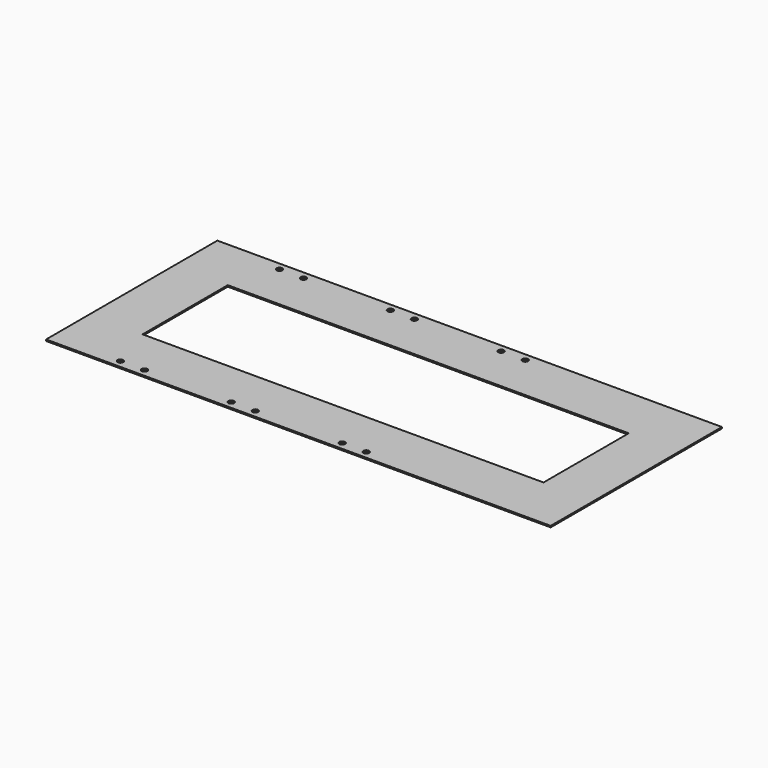
from build123d import *

# Parameters (mm, degrees)
F0_W     = 1676.4
F0_H     = 711.2
F0_R     = 9.525
F1_DEPTH = 4.7498


with BuildPart() as f1:
    # F0 (on Top) → F1 (new body)
    with BuildSketch(Plane.XY):
        with Locations((157.311008, -148.01763)):
            Rectangle(F0_W, F0_H)
        with Locations((-454.193992, -478.21763)):
            Circle(F0_R, mode=Mode.SUBTRACT)
        with Locations((-374.183992, -478.21763)):
            Circle(F0_R, mode=Mode.SUBTRACT)
        with Locations((-85.893992, -478.21763)):
            Circle(F0_R, mode=Mode.SUBTRACT)
        with Locations((-5.883992, -478.21763)):
            Circle(F0_R, mode=Mode.SUBTRACT)
        with Locations((282.406008, -478.21763)):
            Circle(F0_R, mode=Mode.SUBTRACT)
        with Locations((362.416008, -478.21763)):
            Circle(F0_R, mode=Mode.SUBTRACT)
        with Locations((-454.193992, 182.18237)):
            Circle(F0_R, mode=Mode.SUBTRACT)
        with Locations((-374.183992, 182.18237)):
            Circle(F0_R, mode=Mode.SUBTRACT)
        with Locations((-85.893992, 182.18237)):
            Circle(F0_R, mode=Mode.SUBTRACT)
        with Locations((-5.883992, 182.18237)):
            Circle(F0_R, mode=Mode.SUBTRACT)
        Polygon((-503.300965, -148.01763), (-503.300965, 28.928977), (828.888059, 28.928977), (828.888059, -148.01763), (828.888059, -324.964236), (-503.300965, -324.964236), align=None, mode=Mode.SUBTRACT)
        with Locations((282.406008, 182.18237)):
            Circle(F0_R, mode=Mode.SUBTRACT)
        with Locations((362.416008, 182.18237)):
            Circle(F0_R, mode=Mode.SUBTRACT)
    extrude(amount=F1_DEPTH)


solid = f1.part
